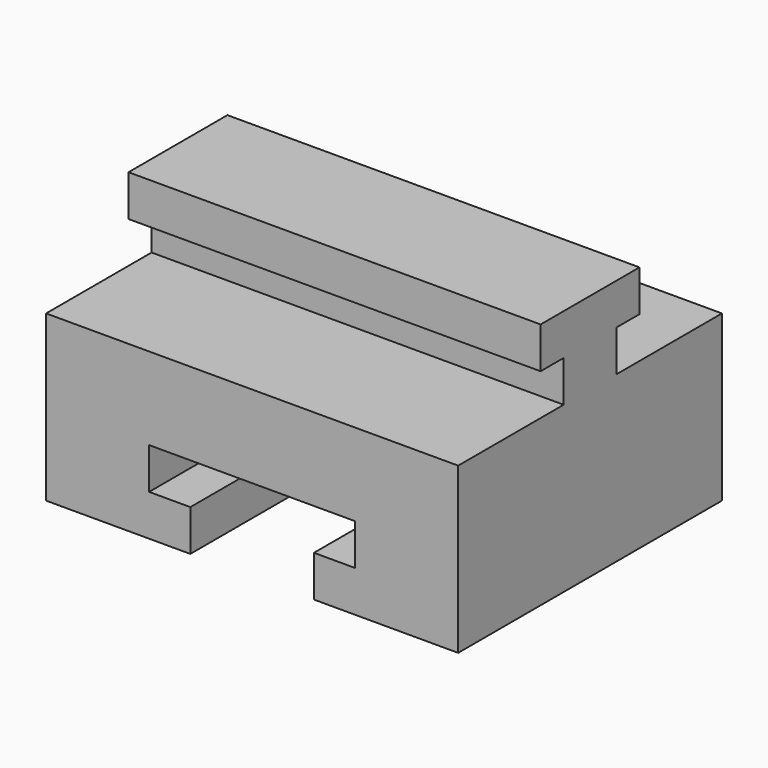
from build123d import *

# Parameters (mm, degrees)
BOX_W        = 50
BOX_H        = 40
BOX_DEPTH    = 20
POCKET_DEPTH = 40.001
PAD_DEPTH    = 50


with BuildPart() as pocket:
    # Box → Box (new body)
    with BuildSketch(Plane.XY):
        with Locations((25, 20)):
            Rectangle(BOX_W, BOX_H)
    extrude(amount=BOX_DEPTH)

    # Sketch → Pocket (cut, through all)
    with BuildSketch(Plane.XZ):
        Polygon((12.5, 5), (12.5, 10), (37.5, 10), (37.5, 5), (32.5, 5), (32.5, 0), (17.5, 0), (17.5, 5), align=None)
    extrude(amount=-POCKET_DEPTH, mode=Mode.SUBTRACT)


with BuildPart() as pad:
    # Pad base: copy of Pocket
    add(pocket.part)

    # Sketch001 → Pad (new body)
    with BuildSketch(Plane(origin=(0, 0, 0), x_dir=(0, -1, 0), z_dir=(-1, 0, 0))):
        Polygon((-27.5, 30), (-12.5, 30), (-12.5, 25), (-16, 25), (-16, 10), (-24, 10), (-24, 25), (-27.5, 25), align=None)
    extrude(amount=-PAD_DEPTH)


with BuildPart() as fusion:
    # Fusion base: copy of Pocket
    add(pocket.part)

    # Fusion: union Pad
    add(pad.part)


solid = fusion.part
